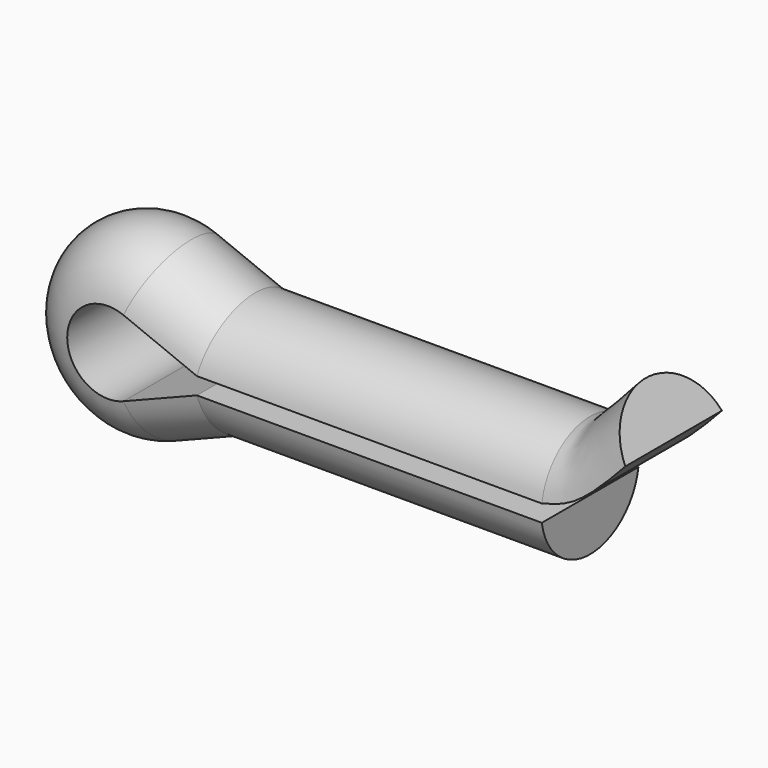
from build123d import *


with BuildPart() as f2:
    # F2: sweep along a path in F1
    with BuildLine(Plane.XZ) as f2_path:
        Line((0, 0.1928703859), (-8.5, 0.1928703859))
        Line((-8.5, 0.1928703859), (-10.310026817, 0.9273105534))
        ThreePointArc((-10.310026817, 0.9273105534), (-11.6870349777, 0), (-10.310026817, -0.9273105534))
        Line((-10.310026817, -0.9273105534), (-8.5, -0.2111324798))
        Line((-8.5, -0.2111324798), (0, -0.2111324798))
    # F0 (on Right) → F2 (sweep)
    with BuildSketch(Plane.YZ):
        with BuildLine():
            Line((-1.4866068747, 0.2), (1.4866068747, 0.2))
            ThreePointArc((1.4866068747, 0.2), (0, 1.4883123163), (-1.4866068747, 0.2))
        make_face()
    sweep(path=f2_path.line, transition=Transition.RIGHT)

    # F3: sweep along a path in F1
    with BuildLine(Plane.XZ) as f3_path:
        add(Plane.XZ * Edge.make_bspline(
            [(0, 0.1928703859), (0.2573332154, 0.260272227), (0.8780881589, 0.4261663517), (1.6328392869, 1.207547598), (2.0620173309, 1.6684386646)],
            knots=[0, 0, 0, 0, 0.4125710277, 1, 1, 1, 1], degree=3))
    # F0 (on Right) → F3 (sweep)
    with BuildSketch(Plane.YZ):
        with BuildLine():
            Line((-1.4866068747, 0.2), (1.4866068747, 0.2))
            ThreePointArc((1.4866068747, 0.2), (0, 1.4883123163), (-1.4866068747, 0.2))
        make_face()
    sweep(path=f3_path.line)


solid = f2.part
